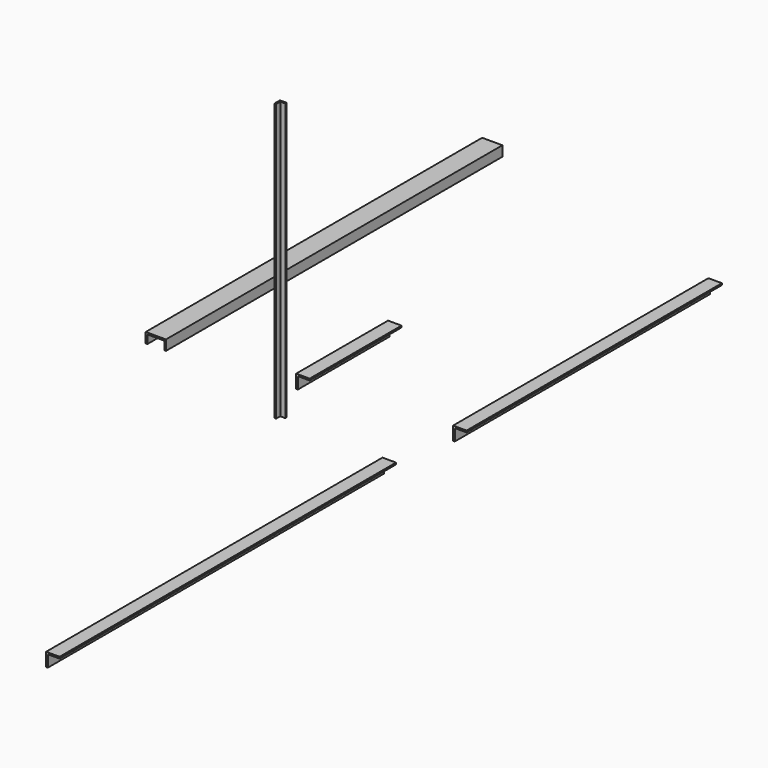
from build123d import *

# Parameters (mm, degrees)
F0_W     = 44.45
F0_H     = 6.35
F1_DEPTH = 1581.15
F2_W     = 19.05
F2_H     = 6.35
F3_DEPTH = 1041.4
F4_W     = 44.45
F4_H     = 6.35
F5_DEPTH = 431.8
F6_W     = 44.45
F6_H     = 6.35
F7_DEPTH = 1200.15
F8_W     = 6.35
F8_H     = 31.75
F9_DEPTH = 1581.15


with BuildPart() as f1:
    # F0 (on Front) → F1 (new body)
    with BuildSketch(Plane.XZ):
        Polygon((-7.253912, 29.706775), (-7.253912, -21.093225), (-0.903912, -21.093225), (-0.903912, 23.356775), (-0.903912, 29.706775), align=None)
        with Locations((21.321088, 26.531775)):
            Rectangle(F0_W, F0_H)
    extrude(amount=F1_DEPTH)


with BuildPart() as f3:
    # F2 (on Top) → F3 (new body)
    with BuildSketch(Plane.XY):
        with Locations((-431.738131, 65.306978)):
            Rectangle(F2_W, F2_H)
        Polygon((-441.263131, 68.481978), (-447.613131, 68.481978), (-447.613131, 43.081978), (-441.263131, 43.081978), (-441.263131, 62.131978), align=None)
    extrude(amount=F3_DEPTH)


with BuildPart() as f5:
    # F4 (on Front) → F5 (new body)
    with BuildSketch(Plane.XZ):
        with Locations((-303.369573, 198.860992)):
            Rectangle(F4_W, F4_H)
        Polygon((-331.944573, 202.035992), (-331.944573, 151.235992), (-325.594573, 151.235992), (-325.594573, 195.685992), (-325.594573, 202.035992), align=None)
    extrude(amount=-F5_DEPTH)


with BuildPart() as f7:
    # F6 (on Front) → F7 (new body)
    with BuildSketch(Plane.XZ):
        Polygon((258.122068, 222.020356), (258.122068, 171.220356), (264.472068, 171.220356), (264.472068, 215.670356), (264.472068, 222.020356), align=None)
        with Locations((286.697068, 218.845356)):
            Rectangle(F6_W, F6_H)
    extrude(amount=-F7_DEPTH)


with BuildPart() as f9:
    # F8 (on Front) → F9 (new body)
    with BuildSketch(Plane.XZ):
        with Locations((-894.427203, 133.843211)):
            Rectangle(F8_W, F8_H)
        Polygon((-821.402203, 156.068211), (-897.602203, 156.068211), (-897.602203, 149.718211), (-891.252203, 149.718211), (-827.752203, 149.718211), (-821.402203, 149.718211), align=None)
        with Locations((-824.577203, 133.843211)):
            Rectangle(F8_W, F8_H)
    extrude(amount=-F9_DEPTH)


solid = Compound([f1.part, f3.part, f5.part, f7.part, f9.part])
